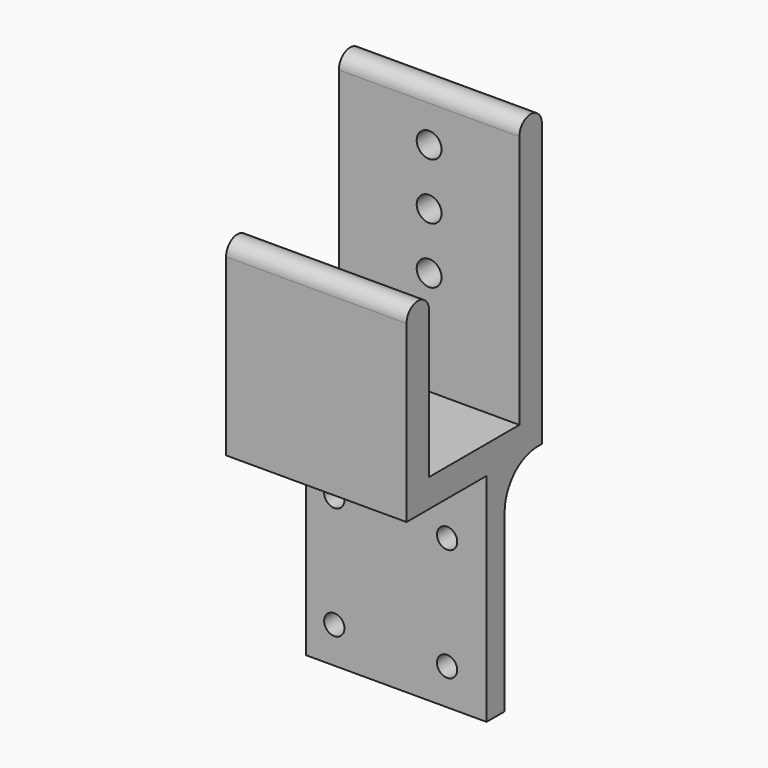
from build123d import *

# Parameters (mm, degrees)
CYLINDER009_R            = 2.2
CYLINDER009_DEPTH        = 20
ARRAY006_Z_COUNT         = 3
ARRAY006_Z_PITCH         = 10
CYLINDER008_R            = 1.8
CYLINDER008_DEPTH        = 10
ARRAY005_X_COUNT         = 2
ARRAY005_X_PITCH         = 20
ARRAY005_Y_COUNT         = 2
ARRAY005_Y_PITCH         = 20
ARRAY005_PLACEMENT_ANGLE = 90
PAD002_DEPTH             = 16


with BuildPart() as holder_insert_hole_array:
    # Cylinder009 → Cylinder009 (new body)
    with BuildSketch(Plane.XZ):
        Circle(CYLINDER009_R)
    extrude(amount=CYLINDER009_DEPTH)

    # Array006 Z: holder insert hole array ×3


with BuildPart() as holder_insert_hole_array_1:
    add(holder_insert_hole_array.part)
    with Locations(*[(0, 0, i * ARRAY006_Z_PITCH) for i in range(1, ARRAY006_Z_COUNT)]):
        add(holder_insert_hole_array.part)


with BuildPart() as holder_insert_hole_array_2:
    # Array006 placement: moved
    add(holder_insert_hole_array_1.part.moved(Location((35, 103, 71.5))))


with BuildPart() as holder_hole_fusion:
    # Cylinder008 → Cylinder008 (new body)
    with BuildSketch(Plane.XY):
        Circle(CYLINDER008_R)
    extrude(amount=CYLINDER008_DEPTH)

    # Array005 X: holder hole fusion ×2


with BuildPart() as holder_hole_fusion_1:
    add(holder_hole_fusion.part)
    with Locations(*[(i * ARRAY005_X_PITCH, 0, 0) for i in range(1, ARRAY005_X_COUNT)]):
        add(holder_hole_fusion.part)

    # Array005 Y: holder hole fusion ×2


with BuildPart() as holder_hole_fusion_2:
    add(holder_hole_fusion_1.part)
    with Locations(*[(0, i * ARRAY005_Y_PITCH, 0) for i in range(1, ARRAY005_Y_COUNT)]):
        add(holder_hole_fusion_1.part)


with BuildPart() as holder_hole_fusion_3:
    # Array005 placement: moved
    add(holder_hole_fusion_2.part.moved(Location((24, 88, 16))).rotate(Axis((24, 88, 16), (1, 0, 0)), ARRAY005_PLACEMENT_ANGLE))

    # Fusion008: union holder insert hole array
    add(holder_insert_hole_array_2.part)


with BuildPart() as holder_cut:
    # Sketch002 → Pad002 (new body, symmetric)
    with BuildSketch(Plane.YZ):
        with BuildLine():
            Line((65.267053, 48), (83, 48))
            Line((83, 48), (83, 9.6))
            Line((83, 9.6), (87, 9.6))
            Line((87, 9.6), (87, 40.719632))
            ThreePointArc((94.280368, 48), (89.13237, 45.86763), (87, 40.719632))
            Line((94.280368, 48), (95.267053, 48))
            Line((95.267053, 48), (95.267053, 98))
            ThreePointArc((95.267053, 98), (92.767053, 100.5), (90.267053, 98))
            Line((90.267053, 98), (90.267053, 53))
            Line((90.267053, 53), (70.267053, 53))
            Line((70.267053, 53), (70.267053, 79))
            ThreePointArc((70.267053, 79), (67.767053, 81.5), (65.267053, 79))
            Line((65.267053, 79), (65.267053, 48))
        make_face()
    extrude(amount=PAD002_DEPTH, both=True)


with BuildPart() as holder_cut_1:
    # Body002 placement: moved
    add(holder_cut.part.moved(Location((35, 0, 0))))

    # Cut001006: cut holder hole fusion
    add(holder_hole_fusion_3.part, mode=Mode.SUBTRACT)


solid = holder_cut_1.part
